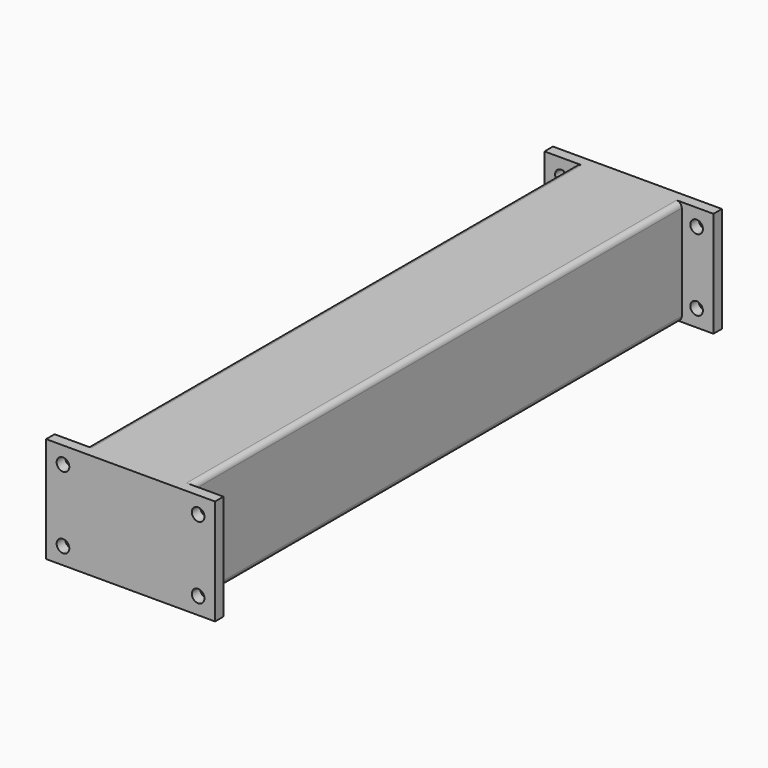
from build123d import *

# Parameters (mm, degrees)
F1_DEPTH = 580
F3_W     = 160
F3_H     = 100
F3_R     = 6
F4_DEPTH = 10
F6_W     = 160
F6_H     = 100
F6_R     = 6
F7_DEPTH = 10


with BuildPart() as f1:
    # F0 (on Front) → F1 (new body)
    with BuildSketch(Plane.XZ):
        with BuildLine():
            ThreePointArc((50, 45), (48.5355339059, 48.5355339059), (45, 50))
            Line((45, 50), (-45, 50))
            ThreePointArc((-45, 50), (-48.5355339059, 48.5355339059), (-50, 45))
            Line((-50, 45), (-50, -45))
            ThreePointArc((-50, -45), (-48.5355339059, -48.5355339059), (-45, -50))
            Line((-45, -50), (45, -50))
            ThreePointArc((45, -50), (48.5355339059, -48.5355339059), (50, -45))
            Line((50, -45), (50, 45))
        make_face()
        with BuildLine():
            ThreePointArc((-47, 45), (-46.4142135624, 46.4142135624), (-45, 47))
            Line((-45, 47), (45, 47))
            ThreePointArc((45, 47), (46.4142135624, 46.4142135624), (47, 45))
            Line((47, 45), (47, -45))
            ThreePointArc((47, -45), (46.4142135624, -46.4142135624), (45, -47))
            Line((45, -47), (-45, -47))
            ThreePointArc((-45, -47), (-46.4142135624, -46.4142135624), (-47, -45))
            Line((-47, -45), (-47, 45))
        make_face(mode=Mode.SUBTRACT)
    extrude(amount=-F1_DEPTH)

    # F3 (on offset) → F4 (join)
    with BuildSketch(Plane.XZ.offset(10)):
        Rectangle(F3_W, F3_H)
        with Locations((-64, -34)):
            Circle(F3_R, mode=Mode.SUBTRACT)
        with Locations((64, -34)):
            Circle(F3_R, mode=Mode.SUBTRACT)
        with Locations((-64, 34)):
            Circle(F3_R, mode=Mode.SUBTRACT)
        with Locations((64, 34)):
            Circle(F3_R, mode=Mode.SUBTRACT)
    extrude(amount=-F4_DEPTH)

    # F6 (on offset) → F7 (join)
    with BuildSketch(Plane(origin=(0, 590, 0), x_dir=(-1, 0, 0), z_dir=(0, 1, 0))):
        Rectangle(F6_W, F6_H)
        with Locations((-64, -34)):
            Circle(F6_R, mode=Mode.SUBTRACT)
        with Locations((64, -34)):
            Circle(F6_R, mode=Mode.SUBTRACT)
        with Locations((-64, 34)):
            Circle(F6_R, mode=Mode.SUBTRACT)
        with Locations((64, 34)):
            Circle(F6_R, mode=Mode.SUBTRACT)
    extrude(amount=-F7_DEPTH)


solid = f1.part
